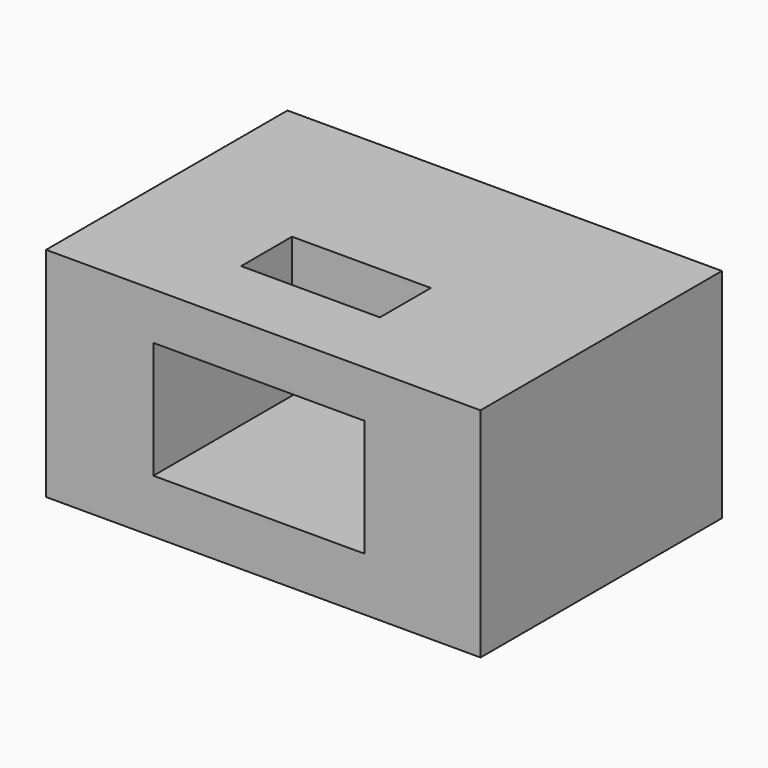
from build123d import *

# Parameters (mm, degrees)
F0_W     = 99.7983887792
F0_H     = 69.3145208061
F1_DEPTH = 50
F2_W     = 48.5056806356
F2_H     = 26.864730753
F3_DEPTH = 100
F7_W     = 31.8869445473
F7_H     = 14.6304946393
F8_DEPTH = 10


with BuildPart() as f1:
    # F0 (on Top) → F1 (new body)
    with BuildSketch(Plane.XY):
        with Locations((5.7157240808, -1.1794362217)):
            Rectangle(F0_W, F0_H)
    extrude(amount=F1_DEPTH)

    # F2 (on face) → F3 (cut)
    with BuildSketch(Plane.XZ.offset(35.8366966248)):
        with Locations((4.7271503136, 25.766398292)):
            Rectangle(F2_W, F2_H)
    extrude(amount=-F3_DEPTH, mode=Mode.SUBTRACT)

    # F7 (on face) → F8 (cut)
    with BuildSketch(Plane.XY.offset(50)):
        with Locations((3.0299229547, -11.6131016985)):
            Rectangle(F7_W, F7_H)
    extrude(amount=-F8_DEPTH, mode=Mode.SUBTRACT)


solid = f1.part
